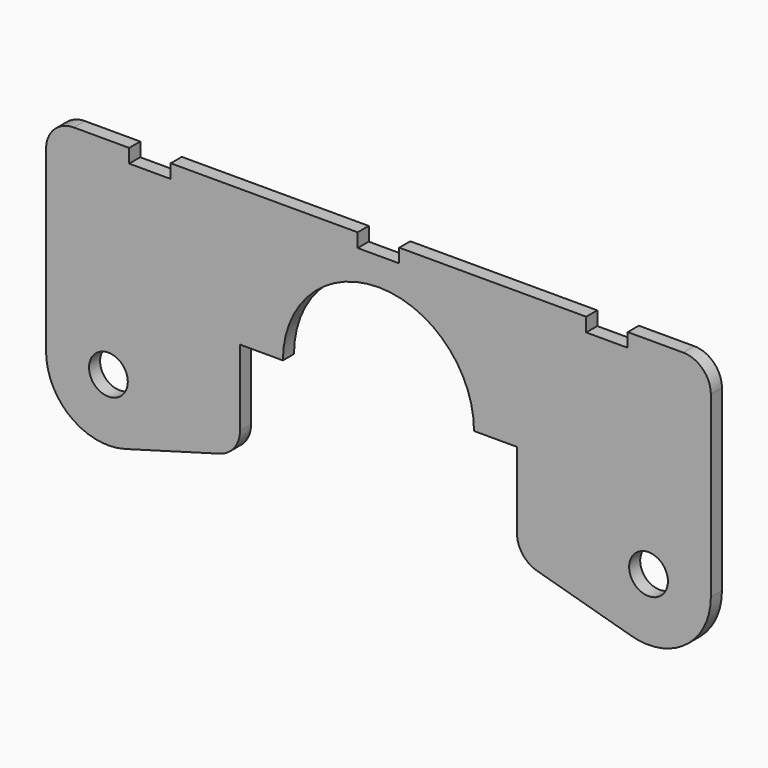
from build123d import *

# Parameters (mm, degrees)
F0_R     = 7
F1_DEPTH = 5


with BuildPart() as f1:
    # F0 (on Front) → F1 (new body)
    with BuildSketch(Plane.XZ):
        with BuildLine():
            ThreePointArc((-34.5, 0), (0, 34.5), (34.5, 0))
            Line((34.5, 0), (50, 0))
            Line((50, 0), (50, -27.426911))
            ThreePointArc((50, -27.426911), (52.028055, -33.464136), (57.289618, -37.052596))
            Line((57.289618, -37.052596), (91.401641, -46.657793))
            ThreePointArc((91.401641, -46.657793), (111.083757, -42.936877), (120, -25))
            Line((120, -25), (120, 39.5))
            ThreePointArc((120, 39.5), (117.071068, 46.571068), (110, 49.5))
            Line((110, 49.5), (90, 49.5))
            Line((90, 49.5), (90, 44.5))
            Line((90, 44.5), (75, 44.5))
            Line((75, 44.5), (75, 49.5))
            Line((75, 49.5), (7.5, 49.5))
            Line((7.5, 49.5), (7.5, 44.5))
            Line((7.5, 44.5), (-7.5, 44.5))
            Line((-7.5, 44.5), (-7.5, 49.5))
            Line((-7.5, 49.5), (-75, 49.5))
            Line((-75, 49.5), (-75, 44.5))
            Line((-75, 44.5), (-90, 44.5))
            Line((-90, 44.5), (-90, 49.5))
            Line((-90, 49.5), (-110, 49.5))
            ThreePointArc((-110, 49.5), (-117.071068, 46.571068), (-120, 39.5))
            Line((-120, 39.5), (-120, -25))
            ThreePointArc((-120, -25), (-111.083757, -42.936877), (-91.401641, -46.657793))
            Line((-91.401641, -46.657793), (-57.289618, -37.052596))
            ThreePointArc((-57.289618, -37.052596), (-52.028055, -33.464136), (-50, -27.426911))
            Line((-50, -27.426911), (-50, 0))
            Line((-50, 0), (-34.5, 0))
        make_face()
        with Locations((-97.5, -25)):
            Circle(F0_R, mode=Mode.SUBTRACT)
        with Locations((97.5, -25)):
            Circle(F0_R, mode=Mode.SUBTRACT)
    extrude(amount=F1_DEPTH)


solid = f1.part
